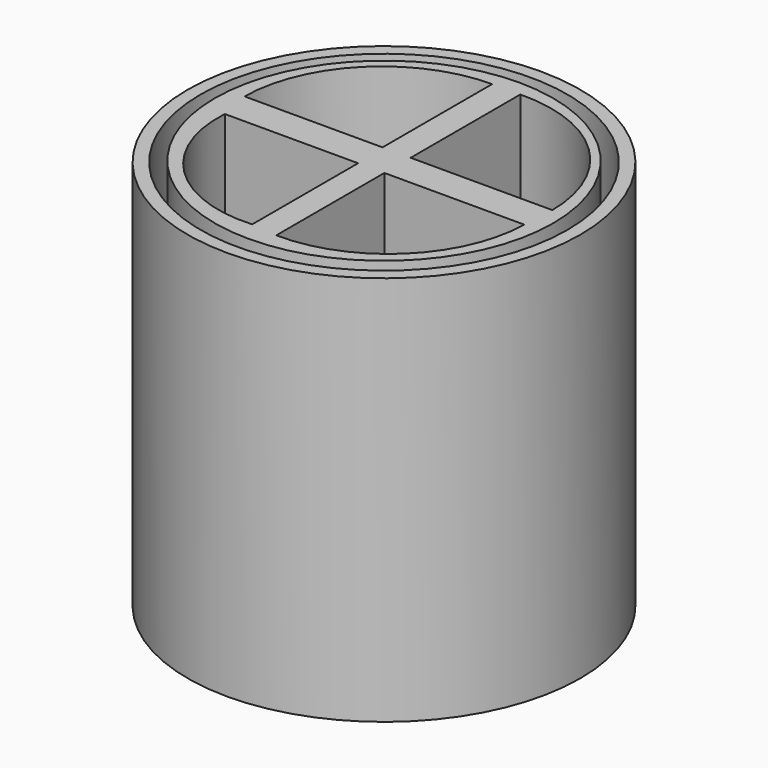
from build123d import *

# Parameters (mm, degrees)
F0_R     = 38.567191
F1_DEPTH = 76.708
F2_T     = -2.54
F3_R     = 33.240041
F4_DEPTH = 74.422
F6_DEPTH = 75.946


with BuildPart() as f1:
    # F0 (on Top) → F1 (new body)
    with BuildSketch(Plane.XY):
        Circle(F0_R)
    extrude(amount=F1_DEPTH)

    # F2
    f2_openings = [f1.faces().sort_by_distance(p)[0] for p in [
        (0, 0, 76.708),
    ]]
    offset(amount=F2_T, openings=f2_openings)

    # F3 (on face) → F4 (join)
    with BuildSketch(Plane.XY.offset(2.54)):
        Circle(F3_R)
    extrude(amount=F4_DEPTH)

    # F5 (on face) → F6 (cut)
    with BuildSketch(Plane.XY.offset(76.962)):
        with BuildLine():
            ThreePointArc((30.418547, 3.318387), (22.14181, 22.611564), (2.580967, 30.234193))
            Line((2.580967, 30.234193), (2.580967, 3.318387))
            Line((2.580967, 3.318387), (30.418547, 3.318387))
        make_face()
        with BuildLine():
            Line((30.049838, -3.134032), (2.580967, -3.134032))
            Line((2.580967, -3.134032), (2.580967, -29.681129))
            ThreePointArc((2.580967, -29.681129), (21.794231, -22.076646), (30.049838, -3.134032))
        make_face()
        with BuildLine():
            Line((-2.949678, 3.318387), (-2.949678, 30.234193))
            ThreePointArc((-2.949678, 30.234193), (-22.011865, 22.326152), (-30.049838, 3.318387))
            Line((-30.049838, 3.318387), (-2.949678, 3.318387))
        make_face()
        with BuildLine():
            Line((-2.580968, -29.128065), (-2.580968, -3.134032))
            Line((-2.580968, -3.134032), (-28.759355, -3.134032))
            ThreePointArc((-28.759355, -3.134032), (-21.580145, -22.082946), (-2.580968, -29.128065))
        make_face()
    extrude(amount=-F6_DEPTH, mode=Mode.SUBTRACT)


solid = f1.part
